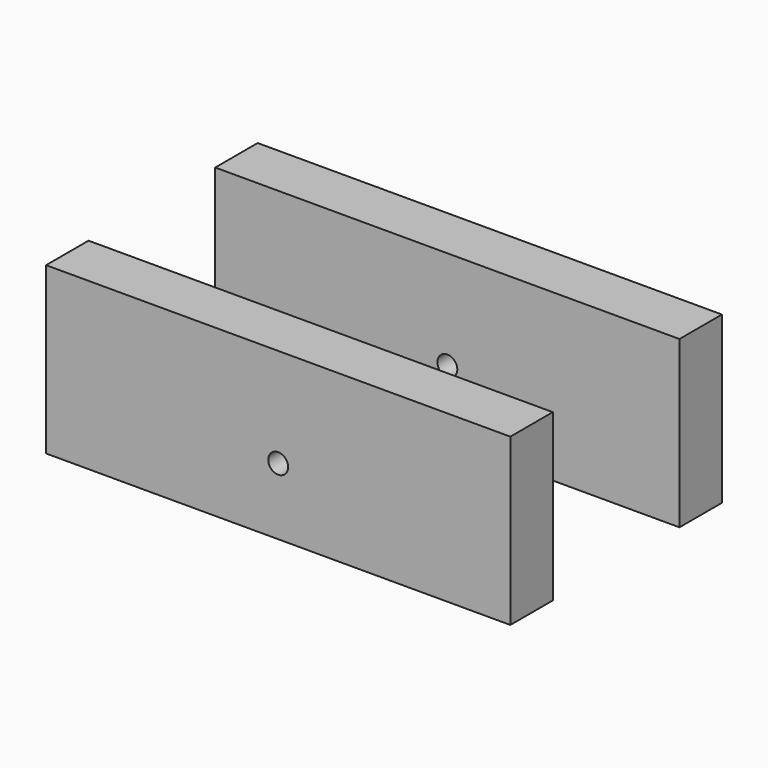
from build123d import *

# Parameters (mm, degrees)
TORUS001_R               = 1.5
TORUS001_ANGLE           = 90
TORUS001_PITCH_ANGLE     = 90
TORUS001_PLACEMENT_ANGLE = -180
TORUS_R                  = 1.5
TORUS_ANGLE              = 90
TORUS_PITCH_ANGLE        = 90
CYLINDER021_R            = 1.5
CYLINDER021_DEPTH        = 20
CYLINDER021_ROLL_ANGLE   = 90
CYLINDER021_PITCH_ANGLE  = 1
CYLINDER020_R            = 1.5
CYLINDER020_DEPTH        = 20
CYLINDER020_ROLL_ANGLE   = 90
CYLINDER020_PITCH_ANGLE  = 1
BOX001_W                 = 0.7
BOX001_H                 = 0.4
BOX001_DEPTH             = 10
CYLINDER004_R            = 0.65
CYLINDER004_DEPTH        = 10
CYLINDER002_R            = 1.5
CYLINDER002_DEPTH        = 79
BOX002_W                 = 0.7
BOX002_H                 = 0.4
BOX002_DEPTH             = 10
CYLINDER003_R            = 0.65
CYLINDER003_DEPTH        = 10
CYLINDER001_R            = 1.5
CYLINDER001_DEPTH        = 79
BOX011_W                 = 8
BOX011_H                 = 70
BOX011_DEPTH             = 25
BOX011_PLACEMENT_ANGLE   = -90
BOX010_W                 = 8
BOX010_H                 = 70
BOX010_DEPTH             = 25
BOX010_PLACEMENT_ANGLE   = -90


with BuildPart() as f_316_bent002:
    # Torus001 → Torus001 (revolve)
    with BuildSketch(Plane.XZ):
        with Locations((7.94, 0)):
            Circle(TORUS001_R)
    revolve(axis=Axis((0, 0, 0), (0, 0, 1)), revolution_arc=TORUS001_ANGLE)


with BuildPart() as f_316_bent002_1:
    # Torus001 pitch: moved
    add(f_316_bent002.part.rotate(Axis((0, 0, 0), (0, 1, 0)), TORUS001_PITCH_ANGLE))


with BuildPart() as f_316_bent002_2:
    # Torus001 placement: moved
    add(f_316_bent002_1.part.moved(Location((0, 11.94, -15))).rotate(Axis((0, 11.94, -15), (0, 0, 1)), TORUS001_PLACEMENT_ANGLE))


with BuildPart() as f_316_bent:
    # Torus → Torus (revolve)
    with BuildSketch(Plane.XZ):
        with Locations((7.94, 0)):
            Circle(TORUS_R)
    revolve(axis=Axis((0, 0, 0), (0, 0, 1)), revolution_arc=TORUS_ANGLE)


with BuildPart() as f_316_bent_1:
    # Torus pitch: moved
    add(f_316_bent.part.rotate(Axis((0, 0, 0), (0, 1, 0)), TORUS_PITCH_ANGLE))


with BuildPart() as f_316_bent_2:
    # Torus placement: moved
    add(f_316_bent_1.part.moved(Location((0, -11.94, -15))))

    # Fusion027: union 316-Bent002
    add(f_316_bent002_2.part)


with BuildPart() as f_316_terminal002:
    # Cylinder021 → Cylinder021 (new body)
    with BuildSketch(Plane.XY):
        Circle(CYLINDER021_R)
    extrude(amount=CYLINDER021_DEPTH)


with BuildPart() as f_316_terminal002_1:
    # Cylinder021 roll: moved
    add(f_316_terminal002.part.rotate(Axis((0, 0, 0), (1, 0, 0)), CYLINDER021_ROLL_ANGLE))


with BuildPart() as f_316_terminal002_2:
    # Cylinder021 pitch: moved
    add(f_316_terminal002_1.part.rotate(Axis((0, 0, 0), (0, 1, 0)), CYLINDER021_PITCH_ANGLE))


with BuildPart() as f_316_terminal002_3:
    # Cylinder021 placement: moved
    add(f_316_terminal002_2.part.moved(Location((0, 31.94, -22.94))))


with BuildPart() as f_316_bottom:
    # Cylinder020 → Cylinder020 (new body)
    with BuildSketch(Plane.XY):
        Circle(CYLINDER020_R)
    extrude(amount=CYLINDER020_DEPTH)


with BuildPart() as f_316_bottom_1:
    # Cylinder020 roll: moved
    add(f_316_bottom.part.rotate(Axis((0, 0, 0), (1, 0, 0)), CYLINDER020_ROLL_ANGLE))


with BuildPart() as f_316_bottom_2:
    # Cylinder020 pitch: moved
    add(f_316_bottom_1.part.rotate(Axis((0, 0, 0), (0, 1, 0)), CYLINDER020_PITCH_ANGLE))


with BuildPart() as f_316_bottom_3:
    # Cylinder020 placement: moved
    add(f_316_bottom_2.part.moved(Location((0, -11.94, -22.94))))

    # Fusion026: union 316-Terminal002
    add(f_316_terminal002_3.part)

    # Fusion028: union 316-Bent
    add(f_316_bent_2.part)


with BuildPart() as cube:
    # Box001 → Box001 (new body)
    with BuildSketch(Plane(origin=(-0.35, 2.5, 48), x_dir=(1, 0, 0), z_dir=(0, 0, 1))):
        with Locations((0.35, 0.2)):
            Rectangle(BOX001_W, BOX001_H)
    extrude(amount=BOX001_DEPTH)


with BuildPart() as fusion003:
    # Cylinder004 → Cylinder004 (new body)
    with BuildSketch(Plane(origin=(0, 3.3, 48), x_dir=(1, 0, 0), z_dir=(0, 0, 1))):
        Circle(CYLINDER004_R)
    extrude(amount=CYLINDER004_DEPTH)

    # Fusion003: union Cube
    add(cube.part)


with BuildPart() as f_316_grooved002:
    # Cylinder002 → Cylinder002 (new body)
    with BuildSketch(Plane(origin=(0, 4, -21), x_dir=(1, 0, 0), z_dir=(0, 0, 1))):
        Circle(CYLINDER002_R)
    extrude(amount=CYLINDER002_DEPTH)

    # Cut012: cut Fusion003
    add(fusion003.part, mode=Mode.SUBTRACT)


with BuildPart() as cube001:
    # Box002 → Box002 (new body)
    with BuildSketch(Plane(origin=(-0.35, -2.9, 48), x_dir=(1, 0, 0), z_dir=(0, 0, 1))):
        with Locations((0.35, 0.2)):
            Rectangle(BOX002_W, BOX002_H)
    extrude(amount=BOX002_DEPTH)


with BuildPart() as fusion004:
    # Cylinder003 → Cylinder003 (new body)
    with BuildSketch(Plane(origin=(0, -3.3, 48), x_dir=(1, 0, 0), z_dir=(0, 0, 1))):
        Circle(CYLINDER003_R)
    extrude(amount=CYLINDER003_DEPTH)

    # Fusion004: union Cube001
    add(cube001.part)


with BuildPart() as fusion029:
    # Cylinder001 → Cylinder001 (new body)
    with BuildSketch(Plane(origin=(0, -4, -21), x_dir=(1, 0, 0), z_dir=(0, 0, 1))):
        Circle(CYLINDER001_R)
    extrude(amount=CYLINDER001_DEPTH)

    # Cut011: cut Fusion004
    add(fusion004.part, mode=Mode.SUBTRACT)

    # Fusion025: union 316-Grooved002
    add(f_316_grooved002.part)


with BuildPart() as fusion029_1:
    # Fusion025 placement: moved
    add(fusion029.part.moved(Location((0, 0, 6))))

    # Fusion029: union 316-Bottom
    add(f_316_bottom_3.part)


with BuildPart() as wood004:
    # Box011 → Box011 (new body)
    with BuildSketch(Plane.XY):
        with Locations((4, 35)):
            Rectangle(BOX011_W, BOX011_H)
    extrude(amount=BOX011_DEPTH)


with BuildPart() as wood004_1:
    # Box011 placement: moved
    add(wood004.part.moved(Location((-35, 19.94, -33))).rotate(Axis((-35, 19.94, -33), (0, 0, 1)), BOX011_PLACEMENT_ANGLE))


with BuildPart() as wood_down002:
    # Box010 → Box010 (new body)
    with BuildSketch(Plane.XY):
        with Locations((4, 35)):
            Rectangle(BOX010_W, BOX010_H)
    extrude(amount=BOX010_DEPTH)


with BuildPart() as wood_down002_1:
    # Box010 placement: moved
    add(wood_down002.part.moved(Location((-35, -11.94, -33))).rotate(Axis((-35, -11.94, -33), (0, 0, 1)), BOX010_PLACEMENT_ANGLE))

    # Fusion031: union Wood004
    add(wood004_1.part)

    # Cut020: cut Fusion029
    add(fusion029_1.part, mode=Mode.SUBTRACT)


solid = wood_down002_1.part
